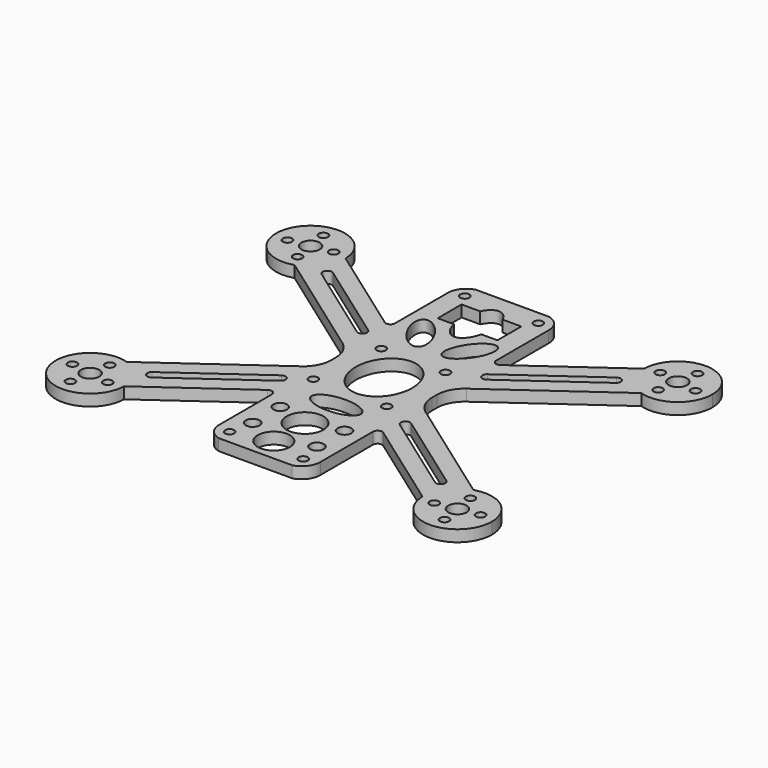
from build123d import *

# Parameters (mm, degrees)
F0_R     = 1
F0_R_2   = 2
F0_R_3   = 1.5
F0_R_4   = 3.5
F0_R_5   = 4
F1_DEPTH = 2.5


with BuildPart() as f1:
    # F0 (on Top) → F1 (new body)
    with BuildSketch(Plane.XY):
        with BuildLine():
            ThreePointArc((37.74968, 22.845557), (44.436924, 23.953207), (47.5, 30))
            ThreePointArc((47.5, 30), (40.078555, 37.499589), (32.501646, 30.157102))
            ThreePointArc((32.501646, 30.157102), (33.907067, 25.626653), (37.74968, 22.845557))
        make_face()
        with Locations((39.258864, 25.561451)):
            Circle(F0_R, mode=Mode.SUBTRACT)
        with Locations((35.561451, 30.741136)):
            Circle(F0_R, mode=Mode.SUBTRACT)
        with Locations((40, 30)):
            Circle(F0_R_2, mode=Mode.SUBTRACT)
        with Locations((44.438549, 29.258864)):
            Circle(F0_R, mode=Mode.SUBTRACT)
        with Locations((40.741136, 34.438549)):
            Circle(F0_R, mode=Mode.SUBTRACT)
        with BuildLine():
            ThreePointArc((37.74968, 22.845557), (33.907067, 25.626653), (32.501646, 30.157102))
            Line((32.501646, 30.157102), (12.580992, 15.937145))
            ThreePointArc((12.580992, 15.937145), (11.542284, 15.861955), (11, 16.751054))
            Line((11, 16.751054), (11, 31))
            ThreePointArc((11, 31), (10.202001, 33.526501), (8, 35))
            Line((8, 35), (-8, 35))
            ThreePointArc((-8, 35), (-10.202001, 33.526501), (-11, 31))
            Line((-11, 31), (-11, 16.751054))
            ThreePointArc((-11, 16.751054), (-11.542284, 15.861955), (-12.580992, 15.937145))
            Line((-12.580992, 15.937145), (-32.501646, 30.157102))
            ThreePointArc((-32.501646, 30.157102), (-32.500411, 30.078555), (-32.5, 30))
            ThreePointArc((-32.5, 30), (-33.953207, 25.563076), (-37.74968, 22.845557))
            Line((-37.74968, 22.845557), (-13.514045, 5.545437))
            ThreePointArc((-13.514045, 5.545437), (-11.665409, 3.408279), (-11, 0.661984))
            Line((-11, 0.661984), (-11, -0.661984))
            ThreePointArc((-11, -0.661984), (-11.665409, -3.408279), (-13.514045, -5.545437))
            Line((-13.514045, -5.545437), (-37.74968, -22.845557))
            ThreePointArc((-37.74968, -22.845557), (-33.953207, -25.563076), (-32.5, -30))
            ThreePointArc((-32.5, -30), (-32.500411, -30.078555), (-32.501646, -30.157102))
            Line((-32.501646, -30.157102), (-12.580992, -15.937145))
            ThreePointArc((-12.580992, -15.937145), (-11.542284, -15.861955), (-11, -16.751054))
            Line((-11, -16.751054), (-11, -16.917931))
            Line((-11, -16.917931), (-11, -31))
            ThreePointArc((-11, -31), (-10.202001, -33.526501), (-8, -35))
            Line((-8, -35), (8, -35))
            ThreePointArc((8, -35), (10.202001, -33.526501), (11, -31))
            Line((11, -31), (11, -16.917931))
            Line((11, -16.917931), (11, -16.751054))
            ThreePointArc((11, -16.751054), (11.542284, -15.861955), (12.580992, -15.937145))
            Line((12.580992, -15.937145), (32.501646, -30.157102))
            ThreePointArc((32.501646, -30.157102), (33.907067, -25.626653), (37.74968, -22.845557))
            Line((37.74968, -22.845557), (13.514045, -5.545437))
            ThreePointArc((13.514045, -5.545437), (11.665409, -3.408279), (11, -0.661984))
            Line((11, -0.661984), (11, 0.661984))
            ThreePointArc((11, 0.661984), (11.665409, 3.408279), (13.514045, 5.545437))
            Line((13.514045, 5.545437), (37.74968, 22.845557))
        make_face()
        with Locations((-8, -32)):
            Circle(F0_R, mode=Mode.SUBTRACT)
        with Locations((-7, -27)):
            Circle(F0_R_3, mode=Mode.SUBTRACT)
        with Locations((-7, -19.5)):
            Circle(F0_R_3, mode=Mode.SUBTRACT)
        with BuildLine():
            Line((-12.976067, -11.918926), (-30.882064, -24.70076))
            ThreePointArc((-30.882064, -24.70076), (-32.276965, -24.467844), (-32.044049, -23.072942))
            Line((-32.044049, -23.072942), (-14.138052, -10.291108))
            ThreePointArc((-14.138052, -10.291108), (-12.743151, -10.524024), (-12.976067, -11.918926))
        make_face(mode=Mode.SUBTRACT)
        with Locations((-9, -8)):
            Circle(F0_R, mode=Mode.SUBTRACT)
        with Locations((0, -30)):
            Circle(F0_R_4, mode=Mode.SUBTRACT)
        with Locations((8, -32)):
            Circle(F0_R, mode=Mode.SUBTRACT)
        with Locations((7, -27)):
            Circle(F0_R_3, mode=Mode.SUBTRACT)
        with Locations((0, -21.5)):
            Circle(F0_R_5, mode=Mode.SUBTRACT)
        with Locations((7, -19.5)):
            Circle(F0_R_3, mode=Mode.SUBTRACT)
        with BuildLine():
            add(Edge.make_bspline(
                [(5.353473, -12.991255), (5.353473, -8.661128), (-2.676737, -10.826192), (-10.706946, -12.991255), (-2.676737, -15.156319), (5.353473, -17.321382), (5.353473, -12.991255)],
                knots=[0, 0, 0, 2.094395, 2.094395, 4.18879, 4.18879, 6.283185, 6.283185, 6.283185], degree=2, weights=[1, 0.5, 1, 0.5, 1, 0.5, 1]))
        make_face(mode=Mode.SUBTRACT)
        with BuildLine():
            Line((14.138052, -10.291108), (32.044049, -23.072942))
            ThreePointArc((32.044049, -23.072942), (32.276965, -24.467844), (30.882064, -24.70076))
            Line((30.882064, -24.70076), (12.976067, -11.918926))
            ThreePointArc((12.976067, -11.918926), (12.743151, -10.524024), (14.138052, -10.291108))
        make_face(mode=Mode.SUBTRACT)
        with Locations((7, -8)):
            Circle(F0_R, mode=Mode.SUBTRACT)
        with Locations((-7, 8)):
            Circle(F0_R, mode=Mode.SUBTRACT)
        with BuildLine():
            ThreePointArc((-32.044049, 23.072942), (-32.276965, 24.467844), (-30.882064, 24.70076))
            Line((-30.882064, 24.70076), (-12.976067, 11.918926))
            ThreePointArc((-12.976067, 11.918926), (-12.743151, 10.524024), (-14.138052, 10.291108))
            Line((-14.138052, 10.291108), (-32.044049, 23.072942))
        make_face(mode=Mode.SUBTRACT)
        with BuildLine():
            add(Edge.make_bspline(
                [(-2.645597, 12.409985), (0.860526, 14.625854), (-4.929215, 19.905075), (-10.718957, 25.184296), (-8.435338, 17.689206), (-6.15172, 10.194117), (-2.645597, 12.409985)],
                knots=[0, 0, 0, 2.094395, 2.094395, 4.18879, 4.18879, 6.283185, 6.283185, 6.283185], degree=2, weights=[1, 0.5, 1, 0.5, 1, 0.5, 1]))
        make_face(mode=Mode.SUBTRACT)
        with Locations((-8, 32)):
            Circle(F0_R, mode=Mode.SUBTRACT)
        with BuildLine():
            add(Edge.make_bspline(
                [(6.170544, 0), (6.170544, 12.990381), (-3.085272, 6.495191), (-12.341088, 0), (-3.085272, -6.495191), (6.170544, -12.990381), (6.170544, 0)],
                knots=[4.712389, 4.712389, 4.712389, 6.806784, 6.806784, 8.901179, 8.901179, 10.995574, 10.995574, 10.995574], degree=2, weights=[1, 0.5, 1, 0.5, 1, 0.5, 1]))
        make_face(mode=Mode.SUBTRACT)
        with Locations((7, 8)):
            Circle(F0_R, mode=Mode.SUBTRACT)
        with BuildLine():
            add(Edge.make_bspline(
                [(2.645597, 12.409985), (6.15172, 10.194117), (8.435338, 17.689206), (10.718957, 25.184296), (4.929215, 19.905075), (-0.860526, 14.625854), (2.645597, 12.409985)],
                knots=[0, 0, 0, 2.094395, 2.094395, 4.18879, 4.18879, 6.283185, 6.283185, 6.283185], degree=2, weights=[1, 0.5, 1, 0.5, 1, 0.5, 1]))
        make_face(mode=Mode.SUBTRACT)
        with BuildLine():
            ThreePointArc((30.882064, 24.70076), (32.276965, 24.467844), (32.044049, 23.072942))
            Line((32.044049, 23.072942), (14.138052, 10.291108))
            ThreePointArc((14.138052, 10.291108), (12.743151, 10.524024), (12.976067, 11.918926))
            Line((12.976067, 11.918926), (30.882064, 24.70076))
        make_face(mode=Mode.SUBTRACT)
        with BuildLine():
            add(Edge.make_bspline(
                [(0, 19.170966), (2.129429, 19.170966), (2.999303, 22.746496)],
                knots=[0, 0, 0, 1.149985, 1.149985, 1.149985], degree=2, weights=[1, 0.839196, 1]))
            add(Edge.make_bspline(
                [(-2.999303, 22.746496), (-2.129429, 19.170966), (0, 19.170966)],
                knots=[5.1332, 5.1332, 5.1332, 6.283185, 6.283185, 6.283185], degree=2, weights=[1, 0.839196, 1]))
            Line((-2.999303, 22.746496), (-6.5, 22.746496))
            Line((-6.5, 22.746496), (-6.5, 29.246496))
            Line((-6.5, 29.246496), (-2.448857, 29.246496))
            add(Edge.make_bspline(
                [(2.448857, 29.246496), (0, 34.281428), (-2.448857, 29.246496)],
                knots=[2.300692, 2.300692, 2.300692, 3.982494, 3.982494, 3.982494], degree=2, weights=[1, 0.666792, 1]))
            Line((2.448857, 29.246496), (6.5, 29.246496))
            Line((6.5, 29.246496), (6.5, 22.746496))
            Line((6.5, 22.746496), (2.999303, 22.746496))
        make_face(mode=Mode.SUBTRACT)
        with Locations((8, 32)):
            Circle(F0_R, mode=Mode.SUBTRACT)
        with BuildLine():
            ThreePointArc((47.5, -30), (44.436924, -23.953207), (37.74968, -22.845557))
            ThreePointArc((37.74968, -22.845557), (33.907067, -25.626653), (32.501646, -30.157102))
            ThreePointArc((32.501646, -30.157102), (40.078555, -37.499589), (47.5, -30))
        make_face()
        with Locations((35.561451, -30.741136)):
            Circle(F0_R, mode=Mode.SUBTRACT)
        with Locations((40.741136, -34.438549)):
            Circle(F0_R, mode=Mode.SUBTRACT)
        with Locations((40, -30)):
            Circle(F0_R_2, mode=Mode.SUBTRACT)
        with Locations((44.438549, -29.258864)):
            Circle(F0_R, mode=Mode.SUBTRACT)
        with Locations((39.258864, -25.561451)):
            Circle(F0_R, mode=Mode.SUBTRACT)
        with BuildLine():
            ThreePointArc((-38.258864, 25.561451), (-38.612605, 26.324568), (-39.423561, 26.547795))
            ThreePointArc((-39.423561, 26.547795), (-39.905124, 24.798333), (-38.258864, 25.561451))
        make_face()
        with BuildLine():
            ThreePointArc((-32.5, 30), (-32.500411, 30.078555), (-32.501646, 30.157102))
            ThreePointArc((-32.501646, 30.157102), (-43.502523, 36.631917), (-44.357444, 23.895683))
            ThreePointArc((-44.357444, 23.895683), (-41.177151, 22.592955), (-37.74968, 22.845557))
            ThreePointArc((-37.74968, 22.845557), (-33.953207, 25.563076), (-32.5, 30))
        make_face()
        with BuildLine():
            ThreePointArc((-38.258864, 25.561451), (-39.905124, 24.798333), (-39.423561, 26.547795))
            ThreePointArc((-39.423561, 26.547795), (-38.612605, 26.324568), (-38.258864, 25.561451))
        make_face(mode=Mode.SUBTRACT)
        with Locations((-44.438549, 29.258864)):
            Circle(F0_R, mode=Mode.SUBTRACT)
        with BuildLine():
            ThreePointArc((-39.670606, 28.027312), (-40.450595, 28.05142), (-41.161985, 28.372182))
            ThreePointArc((-41.161985, 28.372182), (-40.915432, 31.778197), (-38, 30))
            ThreePointArc((-38, 30), (-38.473765, 28.707481), (-39.670606, 28.027312))
        make_face(mode=Mode.SUBTRACT)
        with Locations((-40.741136, 34.438549)):
            Circle(F0_R, mode=Mode.SUBTRACT)
        with Locations((-35.561451, 30.741136)):
            Circle(F0_R, mode=Mode.SUBTRACT)
        with BuildLine():
            ThreePointArc((-32.5, -30), (-33.953207, -25.563076), (-37.74968, -22.845557))
            ThreePointArc((-37.74968, -22.845557), (-46.092933, -34.373347), (-32.501646, -30.157102))
            ThreePointArc((-32.501646, -30.157102), (-32.500411, -30.078555), (-32.5, -30))
        make_face()
        with Locations((-40.741136, -34.438549)):
            Circle(F0_R, mode=Mode.SUBTRACT)
        with Locations((-44.438549, -29.258864)):
            Circle(F0_R, mode=Mode.SUBTRACT)
        with Locations((-40, -30)):
            Circle(F0_R_2, mode=Mode.SUBTRACT)
        with Locations((-35.561451, -30.741136)):
            Circle(F0_R, mode=Mode.SUBTRACT)
        with Locations((-39.258864, -25.561451)):
            Circle(F0_R, mode=Mode.SUBTRACT)
    extrude(amount=F1_DEPTH)


solid = f1.part
